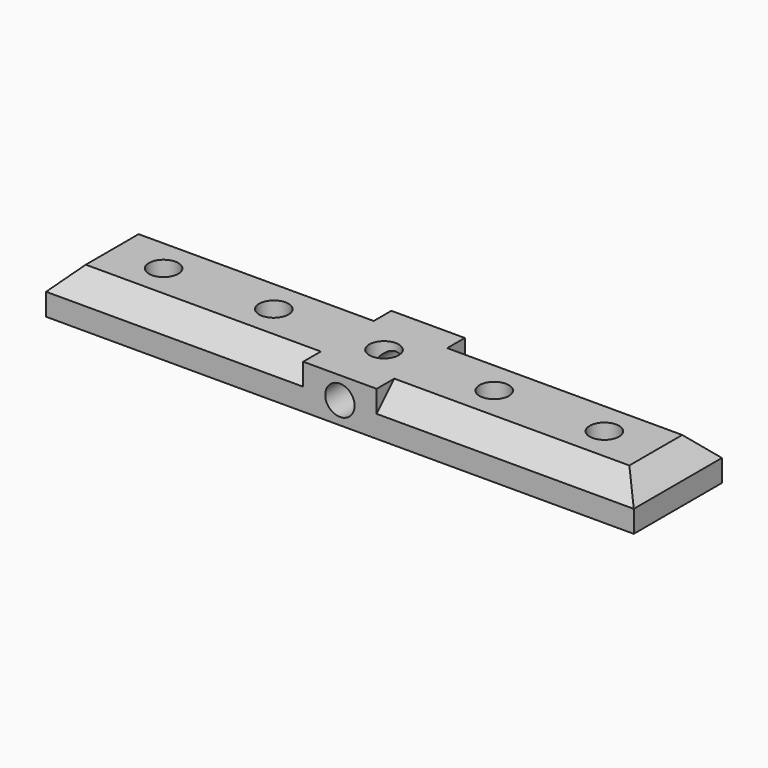
from build123d import *

# Parameters (mm, degrees)
F0_W     = 35
F0_H     = 15
F0_W_2   = 10
F0_R     = 2
F1_DEPTH = 6
F2_SIZE  = 3
F3_R     = 2
F4_DEPTH = 12
F5_DEPTH = 6
F6_R     = 2
F7_DEPTH = 15.001


with BuildPart() as f1:
    # F0 (on Top) → F1 (new body)
    with BuildSketch(Plane.XY):
        with Locations((22.5, 0)):
            Rectangle(F0_W, F0_H)
        Rectangle(F0_W_2, F0_H)
        Circle(F0_R, mode=Mode.SUBTRACT)
        with Locations((-22.5, 0)):
            Rectangle(F0_W, F0_H)
    extrude(amount=F1_DEPTH)

    # F2
    f2_edges = [f1.edges().sort_by_distance(p)[0] for p in [
        (0, -7.5, 6),
        (-40, 0, 6),
        (40, 0, 6),
        (0, 7.5, 6),
    ]]
    chamfer(f2_edges, length=F2_SIZE)

    # F3 (on face) → F4 (cut)
    with BuildSketch(Plane(origin=(0, 0, 0), x_dir=(1, 0, 0), z_dir=(0, 0, -1))):
        with Locations((-30, 0)):
            Circle(F3_R)
        with Locations((-15, 0)):
            Circle(F3_R)
        with Locations((15, 0)):
            Circle(F3_R)
        with Locations((30, 0)):
            Circle(F3_R)
    extrude(amount=-F4_DEPTH, mode=Mode.SUBTRACT)

    # F0 (on Top) → F5 (join)
    with BuildSketch(Plane.XY):
        Rectangle(F0_W_2, F0_H)
        Circle(F0_R, mode=Mode.SUBTRACT)
    extrude(amount=F5_DEPTH)

    # F6 (on face) → F7 (cut, through all)
    with BuildSketch(Plane.XZ.offset(7.5)):
        with Locations((0, 3)):
            Circle(F6_R)
    extrude(amount=-F7_DEPTH, mode=Mode.SUBTRACT)


solid = f1.part
